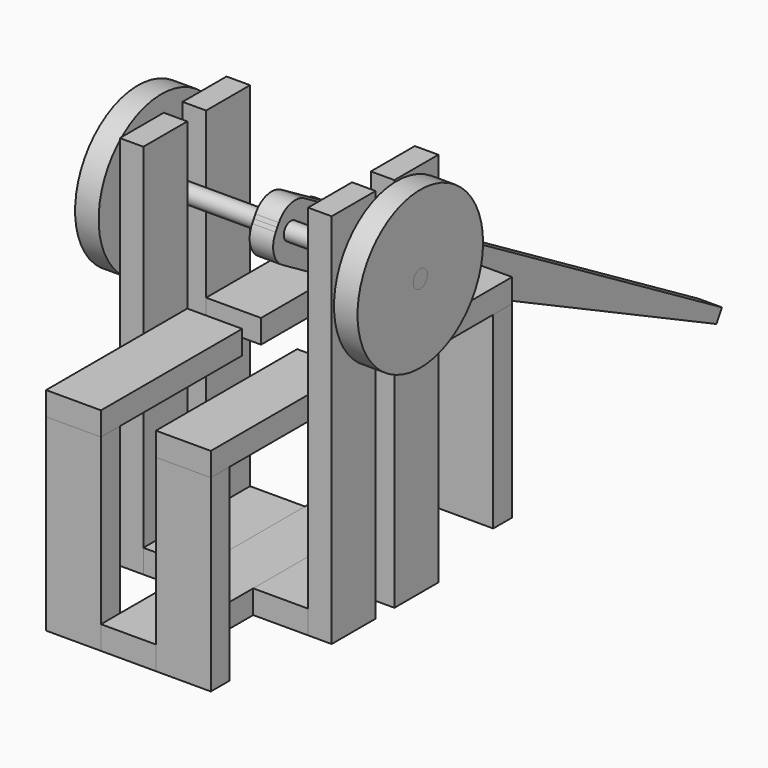
from build123d import *

# Parameters (mm, degrees)
F0_W      = 609.6
F0_H      = 38.1
F1_DEPTH  = 44.45
F2_W      = 38.1
F2_H      = 266.7
F2_H_2    = 38.1
F3_DEPTH  = 88.9
F5_W      = 285.75
F5_H      = 38.1
F6_DEPTH  = 88.9
F9_W      = 88.9
F9_H      = 266.7
F9_H_2    = 38.1
F9_H_3    = 304.8
F10_DEPTH = 38.1
F13_W     = 88.9
F13_H     = 215.9
F14_DEPTH = 38.1
F16_R     = 14.2875
F17_DEPTH = 228.6
F18_R     = 127
F18_R_2   = 14.2875
F19_DEPTH = 38.1
F21_R     = 9.525
F22_DEPTH = 114.3
F23_R     = 38.1
F23_R_2   = 9.525
F24_DEPTH = 25.4
F26_R     = 9.525
F26_R_2   = 14.2875
F27_DEPTH = 19.05


with BuildPart() as f1:
    # F0 (on Right) → F1 (new body, symmetric)
    with BuildSketch(Plane.YZ):
        with Locations((0, 19.05)):
            Rectangle(F0_W, F0_H)
    extrude(amount=F1_DEPTH, both=True)


with BuildPart() as f3:
    # F2 (on face) → F3 (new body)
    with BuildSketch(Plane.YZ.offset(44.45)):
        with Locations((-285.75, 171.45)):
            Rectangle(F2_W, F2_H)
        with Locations((-285.75, 19.05)):
            Rectangle(F2_W, F2_H_2)
    extrude(amount=F3_DEPTH)


with BuildPart() as f4_1:
    # F4: instance of F3
    add(f3.part.mirror(Plane.YZ))


with BuildPart() as f6:
    # F5 (on face) → F6 (new body)
    with BuildSketch(Plane.YZ.offset(44.45)):
        with Locations((-161.925, 323.85)):
            Rectangle(F5_W, F5_H)
    extrude(amount=F6_DEPTH)


with BuildPart() as f7_1:
    # F7: instance of F6
    add(f6.part.mirror(Plane.YZ))


with BuildPart() as f8_1:
    # F8: instance of F3
    add(f3.part.mirror(Plane.XZ))


with BuildPart() as f8_2:
    # F8: instance of F6
    add(f6.part.mirror(Plane.XZ))


with BuildPart() as f8_3:
    # F8: instance of F7_1
    add(f7_1.part.mirror(Plane.XZ))


with BuildPart() as f8_4:
    # F8: instance of F4_1
    add(f4_1.part.mirror(Plane.XZ))


with BuildPart() as f10:
    # F9 (on face) → F10 (new body)
    with BuildSketch(Plane.YZ.offset(133.35)):
        with Locations((-63.5, 476.25)):
            Rectangle(F9_W, F9_H)
        with Locations((-63.5, 323.85)):
            Rectangle(F9_W, F9_H_2)
        with Locations((-63.5, 152.4)):
            Rectangle(F9_W, F9_H_3)
    extrude(amount=F10_DEPTH)


with BuildPart() as f11_1:
    # F11: instance of F10
    add(f10.part.mirror(Plane.YZ))


with BuildPart() as f12_1:
    # F12: instance of F10
    add(f10.part.mirror(Plane.XZ))


with BuildPart() as f12_2:
    # F12: instance of F11_1
    add(f11_1.part.mirror(Plane.XZ))


with BuildPart() as f14:
    # F13 (on Top) → F14 (new body)
    with BuildSketch(Plane.XY):
        with Locations((-88.9, 0)):
            Rectangle(F13_W, F13_H)
    extrude(amount=F14_DEPTH)


with BuildPart() as f15_1:
    # F15: instance of F14
    add(f14.part.mirror(Plane.YZ))


with BuildPart() as f17:
    # F16 (on Right) → F17 (new body, symmetric)
    with BuildSketch(Plane.YZ):
        with Locations((0, 495.3)):
            Circle(F16_R)
    extrude(amount=F17_DEPTH, both=True)


with BuildPart() as f19:
    # F18 (on face) → F19 (new body)
    with BuildSketch(Plane.YZ.offset(228.6)):
        with Locations((0, 495.3)):
            Circle(F18_R)
        with Locations((0, 495.3)):
            Circle(F18_R_2, mode=Mode.SUBTRACT)
    extrude(amount=-F19_DEPTH)


with BuildPart() as f20_1:
    # F20: instance of F19
    add(f19.part.mirror(Plane.YZ))


with BuildPart() as f22:
    # F21 (on Right) → F22 (new body, symmetric)
    with BuildSketch(Plane.YZ):
        with Locations((193.5691386461, 381)):
            Circle(F21_R)
    extrude(amount=F22_DEPTH, both=True)


with BuildPart() as f24:
    # F23 (on face) → F24 (new body)
    with BuildSketch(Plane.YZ.offset(114.3)):
        with Locations((193.5691386461, 381)):
            Circle(F23_R)
        with Locations((193.5691386461, 381)):
            Circle(F23_R_2, mode=Mode.SUBTRACT)
    extrude(amount=-F24_DEPTH)


with BuildPart() as f25_1:
    # F25: instance of F24
    add(f24.part.mirror(Plane.YZ))


with BuildPart() as f27:
    # F26 (on Right) → F27 (new body, symmetric)
    with BuildSketch(Plane.YZ):
        with BuildLine():
            Line((-24.1107547215, 516.9114901559), (-27.3394738007, 511.4435953958))
            Line((-27.3394738007, 511.4435953958), (-30.5681928798, 505.9757006357))
            ThreePointArc((-30.5681928798, 505.9757006357), (-34.6574320338, 477.103368311), (-17.133138794, 453.7960175999))
            Line((-17.133138794, 453.7960175999), (118.1735009264, 373.8992477521))
            Line((118.1735009264, 373.8992477521), (861.017026639, 12.6913421614))
            Line((861.017026639, 12.6913421614), (872.3175434161, 31.8289738219))
            Line((872.3175434161, 31.8289738219), (28.0689283142, 530.3465442418))
            ThreePointArc((28.0689283142, 530.3465442418), (-0.8034040104, 534.4357833957), (-24.1107547215, 516.9114901559))
        make_face()
        with Locations((193.5691386461, 381)):
            Circle(F26_R, mode=Mode.SUBTRACT)
        with Locations((0, 495.3)):
            Circle(F26_R_2, mode=Mode.SUBTRACT)
    extrude(amount=F27_DEPTH, both=True)


solid = Compound([f1.part, f3.part, f4_1.part, f6.part, f7_1.part, f8_1.part, f8_2.part, f8_3.part, f8_4.part, f10.part, f11_1.part, f12_1.part, f12_2.part, f14.part, f15_1.part, f17.part, f19.part, f20_1.part, f22.part, f24.part, f25_1.part, f27.part])
